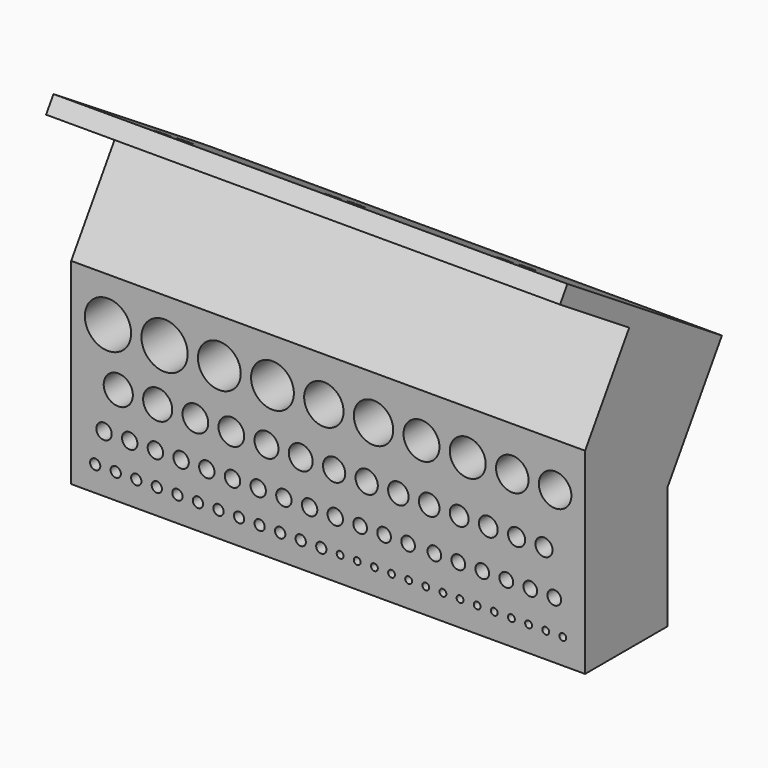
from build123d import *

# Parameters (mm, degrees)
F1_DEPTH = 25
F2_W     = 144.5209160447
F2_H     = 17.829561606
F3_DEPTH = 9.2
F4_W     = 150
F4_H     = 57.3598849668
F5_DEPTH = 5
F7_DEPTH = 150
F9_DEPTH = 25


with BuildPart() as f1:
    # F0 (on Front) → F1 (new body)
    with BuildSketch(Plane.XZ):
        with BuildLine():
            Line((75, 15.7791506468), (75, 28.6799424834))
            Line((75, 28.6799424834), (-75, 28.6799424834))
            Line((-75, 28.6799424834), (-75, 15.7791506468))
            Line((-75, 15.7791506468), (-71, 15.7791506468))
            ThreePointArc((-71, 15.7791506468), (-64.25, 22.5291506468), (-57.5, 15.7791506468))
            Line((-57.5, 15.7791506468), (-54.5, 15.7791506468))
            ThreePointArc((-54.5, 15.7791506468), (-47.75, 22.5291506468), (-41, 15.7791506468))
            Line((-41, 15.7791506468), (-38, 15.7791506468))
            ThreePointArc((-38, 15.7791506468), (-31.75, 22.0291506468), (-25.5, 15.7791506468))
            Line((-25.5, 15.7791506468), (-22.5, 15.7791506468))
            ThreePointArc((-22.5, 15.7791506468), (-16.25, 22.0291506468), (-10, 15.7791506468))
            Line((-10, 15.7791506468), (-7, 15.7791506468))
            ThreePointArc((-7, 15.7791506468), (-1.25, 21.5291506468), (4.5, 15.7791506468))
            Line((4.5, 15.7791506468), (7.5, 15.7791506468))
            ThreePointArc((7.5, 15.7791506468), (13.25, 21.5291506468), (19, 15.7791506468))
            Line((19, 15.7791506468), (22, 15.7791506468))
            ThreePointArc((22, 15.7791506468), (27.25, 21.0291506468), (32.5, 15.7791506468))
            Line((32.5, 15.7791506468), (35.5, 15.7791506468))
            ThreePointArc((35.5, 15.7791506468), (40.75, 21.0291506468), (46, 15.7791506468))
            Line((46, 15.7791506468), (49, 15.7791506468))
            ThreePointArc((49, 15.7791506468), (53.75, 20.5291506468), (58.5, 15.7791506468))
            Line((58.5, 15.7791506468), (61.5, 15.7791506468))
            ThreePointArc((61.5, 15.7791506468), (66.25, 20.5291506468), (71, 15.7791506468))
            Line((71, 15.7791506468), (75, 15.7791506468))
        make_face()
        with BuildLine():
            Line((75, 0), (75, 15.7791506468))
            Line((75, 15.7791506468), (71, 15.7791506468))
            ThreePointArc((71, 15.7791506468), (66.25, 11.0291506468), (61.5, 15.7791506468))
            Line((61.5, 15.7791506468), (58.5, 15.7791506468))
            ThreePointArc((58.5, 15.7791506468), (53.75, 11.0291506468), (49, 15.7791506468))
            Line((49, 15.7791506468), (46, 15.7791506468))
            ThreePointArc((46, 15.7791506468), (40.75, 10.5291506468), (35.5, 15.7791506468))
            Line((35.5, 15.7791506468), (32.5, 15.7791506468))
            ThreePointArc((32.5, 15.7791506468), (27.25, 10.5291506468), (22, 15.7791506468))
            Line((22, 15.7791506468), (19, 15.7791506468))
            ThreePointArc((19, 15.7791506468), (13.25, 10.0291506468), (7.5, 15.7791506468))
            Line((7.5, 15.7791506468), (4.5, 15.7791506468))
            ThreePointArc((4.5, 15.7791506468), (-1.25, 10.0291506468), (-7, 15.7791506468))
            Line((-7, 15.7791506468), (-10, 15.7791506468))
            ThreePointArc((-10, 15.7791506468), (-16.25, 9.5291506468), (-22.5, 15.7791506468))
            Line((-22.5, 15.7791506468), (-25.5, 15.7791506468))
            ThreePointArc((-25.5, 15.7791506468), (-31.75, 9.5291506468), (-38, 15.7791506468))
            Line((-38, 15.7791506468), (-41, 15.7791506468))
            ThreePointArc((-41, 15.7791506468), (-47.75, 9.0291506468), (-54.5, 15.7791506468))
            Line((-54.5, 15.7791506468), (-57.5, 15.7791506468))
            ThreePointArc((-57.5, 15.7791506468), (-64.25, 9.0291506468), (-71, 15.7791506468))
            Line((-71, 15.7791506468), (-75, 15.7791506468))
            Line((-75, 15.7791506468), (-75, 0))
            Line((-75, 0), (-65.5, 0))
            ThreePointArc((-65.5, 0), (-61.25, 4.25), (-57, 0))
            Line((-57, 0), (-54, 0))
            ThreePointArc((-54, 0), (-49.75, 4.25), (-45.5, 0))
            Line((-45.5, 0), (-42.5, 0))
            ThreePointArc((-42.5, 0), (-38.75, 3.75), (-35, 0))
            Line((-35, 0), (-32, 0))
            ThreePointArc((-32, 0), (-28.25, 3.75), (-24.5, 0))
            Line((-24.5, 0), (-21.5, 0))
            ThreePointArc((-21.5, 0), (-18, 3.5), (-14.5, 0))
            Line((-14.5, 0), (-11.5, 0))
            ThreePointArc((-11.5, 0), (-8, 3.5), (-4.5, 0))
            Line((-4.5, 0), (-1.5, 0))
            ThreePointArc((-1.5, 0), (1.75, 3.25), (5, 0))
            Line((5, 0), (8, 0))
            ThreePointArc((8, 0), (11.25, 3.25), (14.5, 0))
            Line((14.5, 0), (17.5, 0))
            ThreePointArc((17.5, 0), (20.5, 3), (23.5, 0))
            Line((23.5, 0), (26.5, 0))
            ThreePointArc((26.5, 0), (29.5, 3), (32.5, 0))
            Line((32.5, 0), (35.5, 0))
            ThreePointArc((35.5, 0), (38.25, 2.75), (41, 0))
            Line((41, 0), (44, 0))
            ThreePointArc((44, 0), (46.75, 2.75), (49.5, 0))
            Line((49.5, 0), (52.5, 0))
            ThreePointArc((52.5, 0), (55, 2.5), (57.5, 0))
            Line((57.5, 0), (60.5, 0))
            ThreePointArc((60.5, 0), (63, 2.5), (65.5, 0))
            Line((65.5, 0), (75, 0))
        make_face()
        with BuildLine():
            Line((75, -12), (75, 0))
            Line((75, 0), (65.5, 0))
            ThreePointArc((65.5, 0), (63, -2.5), (60.5, 0))
            Line((60.5, 0), (57.5, 0))
            ThreePointArc((57.5, 0), (55, -2.5), (52.5, 0))
            Line((52.5, 0), (49.5, 0))
            ThreePointArc((49.5, 0), (46.75, -2.75), (44, 0))
            Line((44, 0), (41, 0))
            ThreePointArc((41, 0), (38.25, -2.75), (35.5, 0))
            Line((35.5, 0), (32.5, 0))
            ThreePointArc((32.5, 0), (29.5, -3), (26.5, 0))
            Line((26.5, 0), (23.5, 0))
            ThreePointArc((23.5, 0), (20.5, -3), (17.5, 0))
            Line((17.5, 0), (14.5, 0))
            ThreePointArc((14.5, 0), (11.25, -3.25), (8, 0))
            Line((8, 0), (5, 0))
            ThreePointArc((5, 0), (1.75, -3.25), (-1.5, 0))
            Line((-1.5, 0), (-4.5, 0))
            ThreePointArc((-4.5, 0), (-8, -3.5), (-11.5, 0))
            Line((-11.5, 0), (-14.5, 0))
            ThreePointArc((-14.5, 0), (-18, -3.5), (-21.5, 0))
            Line((-21.5, 0), (-24.5, 0))
            ThreePointArc((-24.5, 0), (-28.25, -3.75), (-32, 0))
            Line((-32, 0), (-35, 0))
            ThreePointArc((-35, 0), (-38.75, -3.75), (-42.5, 0))
            Line((-42.5, 0), (-45.5, 0))
            ThreePointArc((-45.5, 0), (-49.75, -4.25), (-54, 0))
            Line((-54, 0), (-57, 0))
            ThreePointArc((-57, 0), (-61.25, -4.25), (-65.5, 0))
            Line((-65.5, 0), (-75, 0))
            Line((-75, 0), (-75, -12))
            Line((-75, -12), (-67.6634205133, -12))
            ThreePointArc((-67.6634205133, -12), (-65.4134205133, -9.75), (-63.1634205133, -12))
            Line((-63.1634205133, -12), (-60.1634205133, -12))
            ThreePointArc((-60.1634205133, -12), (-57.9134205133, -9.75), (-55.6634205133, -12))
            Line((-55.6634205133, -12), (-52.6634205133, -12))
            ThreePointArc((-52.6634205133, -12), (-50.4134205133, -9.75), (-48.1634205133, -12))
            Line((-48.1634205133, -12), (-45.1634205133, -12))
            ThreePointArc((-45.1634205133, -12), (-42.9134205133, -9.75), (-40.6634205133, -12))
            Line((-40.6634205133, -12), (-37.6634205133, -12))
            ThreePointArc((-37.6634205133, -12), (-35.4134205133, -9.75), (-33.1634205133, -12))
            Line((-33.1634205133, -12), (-30.1634205133, -12))
            ThreePointArc((-30.1634205133, -12), (-27.9134205133, -9.75), (-25.6634205133, -12))
            Line((-25.6634205133, -12), (-22.6634205133, -12))
            ThreePointArc((-22.6634205133, -12), (-20.4134205133, -9.75), (-18.1634205133, -12))
            Line((-18.1634205133, -12), (-15.1634205133, -12))
            ThreePointArc((-15.1634205133, -12), (-12.9134205133, -9.75), (-10.6634205133, -12))
            Line((-10.6634205133, -12), (-7.6634205133, -12))
            ThreePointArc((-7.6634205133, -12), (-5.4134205133, -9.75), (-3.1634205133, -12))
            Line((-3.1634205133, -12), (-0.1634205133, -12))
            ThreePointArc((-0.1634205133, -12), (2.0865794867, -9.75), (4.3365794867, -12))
            Line((4.3365794867, -12), (7.3365794867, -12))
            ThreePointArc((7.3365794867, -12), (9.3365794867, -10), (11.3365794867, -12))
            Line((11.3365794867, -12), (14.3365794867, -12))
            ThreePointArc((14.3365794867, -12), (16.3365794867, -10), (18.3365794867, -12))
            Line((18.3365794867, -12), (21.3365794867, -12))
            ThreePointArc((21.3365794867, -12), (23.3365794867, -10), (25.3365794867, -12))
            Line((25.3365794867, -12), (29, -12))
            ThreePointArc((29, -12), (31, -10), (33, -12))
            Line((33, -12), (36, -12))
            ThreePointArc((36, -12), (38, -10), (40, -12))
            Line((40, -12), (43, -12))
            ThreePointArc((43, -12), (45, -10), (47, -12))
            Line((47, -12), (50, -12))
            ThreePointArc((50, -12), (52, -10), (54, -12))
            Line((54, -12), (57, -12))
            ThreePointArc((57, -12), (59, -10), (61, -12))
            Line((61, -12), (64, -12))
            ThreePointArc((64, -12), (66, -10), (68, -12))
            Line((68, -12), (75, -12))
        make_face()
        with BuildLine():
            Line((75, -21.3151220232), (75, -12))
            Line((75, -12), (68, -12))
            ThreePointArc((68, -12), (66, -14), (64, -12))
            Line((64, -12), (61, -12))
            ThreePointArc((61, -12), (59, -14), (57, -12))
            Line((57, -12), (54, -12))
            ThreePointArc((54, -12), (52, -14), (50, -12))
            Line((50, -12), (47, -12))
            ThreePointArc((47, -12), (45, -14), (43, -12))
            Line((43, -12), (40, -12))
            ThreePointArc((40, -12), (38, -14), (36, -12))
            Line((36, -12), (33, -12))
            ThreePointArc((33, -12), (31, -14), (29, -12))
            Line((29, -12), (25.3365794867, -12))
            ThreePointArc((25.3365794867, -12), (23.3365794867, -14), (21.3365794867, -12))
            Line((21.3365794867, -12), (18.3365794867, -12))
            ThreePointArc((18.3365794867, -12), (16.3365794867, -14), (14.3365794867, -12))
            Line((14.3365794867, -12), (11.3365794867, -12))
            ThreePointArc((11.3365794867, -12), (9.3365794867, -14), (7.3365794867, -12))
            Line((7.3365794867, -12), (4.3365794867, -12))
            ThreePointArc((4.3365794867, -12), (2.0865794867, -14.25), (-0.1634205133, -12))
            Line((-0.1634205133, -12), (-3.1634205133, -12))
            ThreePointArc((-3.1634205133, -12), (-5.4134205133, -14.25), (-7.6634205133, -12))
            Line((-7.6634205133, -12), (-10.6634205133, -12))
            ThreePointArc((-10.6634205133, -12), (-12.9134205133, -14.25), (-15.1634205133, -12))
            Line((-15.1634205133, -12), (-18.1634205133, -12))
            ThreePointArc((-18.1634205133, -12), (-20.4134205133, -14.25), (-22.6634205133, -12))
            Line((-22.6634205133, -12), (-25.6634205133, -12))
            ThreePointArc((-25.6634205133, -12), (-27.9134205133, -14.25), (-30.1634205133, -12))
            Line((-30.1634205133, -12), (-33.1634205133, -12))
            ThreePointArc((-33.1634205133, -12), (-35.4134205133, -14.25), (-37.6634205133, -12))
            Line((-37.6634205133, -12), (-40.6634205133, -12))
            ThreePointArc((-40.6634205133, -12), (-42.9134205133, -14.25), (-45.1634205133, -12))
            Line((-45.1634205133, -12), (-48.1634205133, -12))
            ThreePointArc((-48.1634205133, -12), (-50.4134205133, -14.25), (-52.6634205133, -12))
            Line((-52.6634205133, -12), (-55.6634205133, -12))
            ThreePointArc((-55.6634205133, -12), (-57.9134205133, -14.25), (-60.1634205133, -12))
            Line((-60.1634205133, -12), (-63.1634205133, -12))
            ThreePointArc((-63.1634205133, -12), (-65.4134205133, -14.25), (-67.6634205133, -12))
            Line((-67.6634205133, -12), (-75, -12))
            Line((-75, -12), (-75, -21.3151220232))
            Line((-75, -21.3151220232), (-69.5, -21.3151220232))
            ThreePointArc((-69.5, -21.3151220232), (-68, -19.8151220232), (-66.5, -21.3151220232))
            Line((-66.5, -21.3151220232), (-63.5, -21.3151220232))
            ThreePointArc((-63.5, -21.3151220232), (-62, -19.8151220232), (-60.5, -21.3151220232))
            Line((-60.5, -21.3151220232), (-57.5, -21.3151220232))
            ThreePointArc((-57.5, -21.3151220232), (-56, -19.8151220232), (-54.5, -21.3151220232))
            Line((-54.5, -21.3151220232), (-51.5, -21.3151220232))
            ThreePointArc((-51.5, -21.3151220232), (-50, -19.8151220232), (-48.5, -21.3151220232))
            Line((-48.5, -21.3151220232), (-45.5, -21.3151220232))
            ThreePointArc((-45.5, -21.3151220232), (-44, -19.8151220232), (-42.5, -21.3151220232))
            Line((-42.5, -21.3151220232), (-39.5, -21.3151220232))
            ThreePointArc((-39.5, -21.3151220232), (-38, -19.8151220232), (-36.5, -21.3151220232))
            Line((-36.5, -21.3151220232), (-33.5, -21.3151220232))
            ThreePointArc((-33.5, -21.3151220232), (-32, -19.8151220232), (-30.5, -21.3151220232))
            Line((-30.5, -21.3151220232), (-27.5, -21.3151220232))
            ThreePointArc((-27.5, -21.3151220232), (-26, -19.8151220232), (-24.5, -21.3151220232))
            Line((-24.5, -21.3151220232), (-21.5, -21.3151220232))
            ThreePointArc((-21.5, -21.3151220232), (-20, -19.8151220232), (-18.5, -21.3151220232))
            Line((-18.5, -21.3151220232), (-15.5, -21.3151220232))
            ThreePointArc((-15.5, -21.3151220232), (-14, -19.8151220232), (-12.5, -21.3151220232))
            Line((-12.5, -21.3151220232), (-9.5, -21.3151220232))
            ThreePointArc((-9.5, -21.3151220232), (-8, -19.8151220232), (-6.5, -21.3151220232))
            Line((-6.5, -21.3151220232), (-3.5, -21.3151220232))
            ThreePointArc((-3.5, -21.3151220232), (-2, -19.8151220232), (-0.5, -21.3151220232))
            Line((-0.5, -21.3151220232), (2.5, -21.3151220232))
            ThreePointArc((2.5, -21.3151220232), (3.5, -20.3151220232), (4.5, -21.3151220232))
            Line((4.5, -21.3151220232), (7.5, -21.3151220232))
            ThreePointArc((7.5, -21.3151220232), (8.5, -20.3151220232), (9.5, -21.3151220232))
            Line((9.5, -21.3151220232), (12.5016883032, -21.3151220232))
            ThreePointArc((12.5016883032, -21.3151220232), (13.4670988895, -20.2507247583), (14.4995784584, -21.2501971579))
            ThreePointArc((14.4995784584, -21.2501971579), (14.499050858, -21.2826767268), (14.4974686136, -21.3151220232))
            Line((14.4974686136, -21.3151220232), (17.4991569168, -21.3151220232))
            ThreePointArc((17.4991569168, -21.3151220232), (18.4991569168, -20.3151220232), (19.4991569168, -21.3151220232))
            Line((19.4991569168, -21.3151220232), (22.4991569168, -21.3151220232))
            ThreePointArc((22.4991569168, -21.3151220232), (23.4991569168, -20.3151220232), (24.4991569168, -21.3151220232))
            Line((24.4991569168, -21.3151220232), (27.4991569168, -21.3151220232))
            ThreePointArc((27.4991569168, -21.3151220232), (28.4991569168, -20.3151220232), (29.4991569168, -21.3151220232))
            Line((29.4991569168, -21.3151220232), (32.4991569168, -21.3151220232))
            ThreePointArc((32.4991569168, -21.3151220232), (33.4991569168, -20.3151220232), (34.4991569168, -21.3151220232))
            Line((34.4991569168, -21.3151220232), (37.4991569168, -21.3151220232))
            ThreePointArc((37.4991569168, -21.3151220232), (38.4991569168, -20.3151220232), (39.4991569168, -21.3151220232))
            Line((39.4991569168, -21.3151220232), (42.4991569168, -21.3151220232))
            ThreePointArc((42.4991569168, -21.3151220232), (43.4991569168, -20.3151220232), (44.4991569168, -21.3151220232))
            Line((44.4991569168, -21.3151220232), (47.4991569168, -21.3151220232))
            ThreePointArc((47.4991569168, -21.3151220232), (48.4991569168, -20.3151220232), (49.4991569168, -21.3151220232))
            Line((49.4991569168, -21.3151220232), (52.4991569168, -21.3151220232))
            ThreePointArc((52.4991569168, -21.3151220232), (53.4991569168, -20.3151220232), (54.4991569168, -21.3151220232))
            Line((54.4991569168, -21.3151220232), (57.4991569168, -21.3151220232))
            ThreePointArc((57.4991569168, -21.3151220232), (58.4991569168, -20.3151220232), (59.4991569168, -21.3151220232))
            Line((59.4991569168, -21.3151220232), (62.4991569168, -21.3151220232))
            ThreePointArc((62.4991569168, -21.3151220232), (63.4991569168, -20.3151220232), (64.4991569168, -21.3151220232))
            Line((64.4991569168, -21.3151220232), (67.4991569168, -21.3151220232))
            ThreePointArc((67.4991569168, -21.3151220232), (68.4991569168, -20.3151220232), (69.4991569168, -21.3151220232))
            Line((69.4991569168, -21.3151220232), (75, -21.3151220232))
        make_face()
        with BuildLine():
            Line((75, -28.6799424834), (75, -21.3151220232))
            Line((75, -21.3151220232), (69.4991569168, -21.3151220232))
            ThreePointArc((69.4991569168, -21.3151220232), (68.4991569168, -22.3151220232), (67.4991569168, -21.3151220232))
            Line((67.4991569168, -21.3151220232), (64.4991569168, -21.3151220232))
            ThreePointArc((64.4991569168, -21.3151220232), (63.4991569168, -22.3151220232), (62.4991569168, -21.3151220232))
            Line((62.4991569168, -21.3151220232), (59.4991569168, -21.3151220232))
            ThreePointArc((59.4991569168, -21.3151220232), (58.4991569168, -22.3151220232), (57.4991569168, -21.3151220232))
            Line((57.4991569168, -21.3151220232), (54.4991569168, -21.3151220232))
            ThreePointArc((54.4991569168, -21.3151220232), (53.4991569168, -22.3151220232), (52.4991569168, -21.3151220232))
            Line((52.4991569168, -21.3151220232), (49.4991569168, -21.3151220232))
            ThreePointArc((49.4991569168, -21.3151220232), (48.4991569168, -22.3151220232), (47.4991569168, -21.3151220232))
            Line((47.4991569168, -21.3151220232), (44.4991569168, -21.3151220232))
            ThreePointArc((44.4991569168, -21.3151220232), (43.4991569168, -22.3151220232), (42.4991569168, -21.3151220232))
            Line((42.4991569168, -21.3151220232), (39.4991569168, -21.3151220232))
            ThreePointArc((39.4991569168, -21.3151220232), (38.4991569168, -22.3151220232), (37.4991569168, -21.3151220232))
            Line((37.4991569168, -21.3151220232), (34.4991569168, -21.3151220232))
            ThreePointArc((34.4991569168, -21.3151220232), (33.4991569168, -22.3151220232), (32.4991569168, -21.3151220232))
            Line((32.4991569168, -21.3151220232), (29.4991569168, -21.3151220232))
            ThreePointArc((29.4991569168, -21.3151220232), (28.4991569168, -22.3151220232), (27.4991569168, -21.3151220232))
            Line((27.4991569168, -21.3151220232), (24.4991569168, -21.3151220232))
            ThreePointArc((24.4991569168, -21.3151220232), (23.4991569168, -22.3151220232), (22.4991569168, -21.3151220232))
            Line((22.4991569168, -21.3151220232), (19.4991569168, -21.3151220232))
            ThreePointArc((19.4991569168, -21.3151220232), (18.4991569168, -22.3151220232), (17.4991569168, -21.3151220232))
            Line((17.4991569168, -21.3151220232), (14.4974686136, -21.3151220232))
            ThreePointArc((14.4974686136, -21.3151220232), (13.4995784584, -22.2501971579), (12.5016883032, -21.3151220232))
            Line((12.5016883032, -21.3151220232), (9.5, -21.3151220232))
            ThreePointArc((9.5, -21.3151220232), (8.5, -22.3151220232), (7.5, -21.3151220232))
            Line((7.5, -21.3151220232), (4.5, -21.3151220232))
            ThreePointArc((4.5, -21.3151220232), (3.5, -22.3151220232), (2.5, -21.3151220232))
            Line((2.5, -21.3151220232), (-0.5, -21.3151220232))
            ThreePointArc((-0.5, -21.3151220232), (-2, -22.8151220232), (-3.5, -21.3151220232))
            Line((-3.5, -21.3151220232), (-6.5, -21.3151220232))
            ThreePointArc((-6.5, -21.3151220232), (-8, -22.8151220232), (-9.5, -21.3151220232))
            Line((-9.5, -21.3151220232), (-12.5, -21.3151220232))
            ThreePointArc((-12.5, -21.3151220232), (-14, -22.8151220232), (-15.5, -21.3151220232))
            Line((-15.5, -21.3151220232), (-18.5, -21.3151220232))
            ThreePointArc((-18.5, -21.3151220232), (-20, -22.8151220232), (-21.5, -21.3151220232))
            Line((-21.5, -21.3151220232), (-24.5, -21.3151220232))
            ThreePointArc((-24.5, -21.3151220232), (-26, -22.8151220232), (-27.5, -21.3151220232))
            Line((-27.5, -21.3151220232), (-30.5, -21.3151220232))
            ThreePointArc((-30.5, -21.3151220232), (-32, -22.8151220232), (-33.5, -21.3151220232))
            Line((-33.5, -21.3151220232), (-36.5, -21.3151220232))
            ThreePointArc((-36.5, -21.3151220232), (-38, -22.8151220232), (-39.5, -21.3151220232))
            Line((-39.5, -21.3151220232), (-42.5, -21.3151220232))
            ThreePointArc((-42.5, -21.3151220232), (-44, -22.8151220232), (-45.5, -21.3151220232))
            Line((-45.5, -21.3151220232), (-48.5, -21.3151220232))
            ThreePointArc((-48.5, -21.3151220232), (-50, -22.8151220232), (-51.5, -21.3151220232))
            Line((-51.5, -21.3151220232), (-54.5, -21.3151220232))
            ThreePointArc((-54.5, -21.3151220232), (-56, -22.8151220232), (-57.5, -21.3151220232))
            Line((-57.5, -21.3151220232), (-60.5, -21.3151220232))
            ThreePointArc((-60.5, -21.3151220232), (-62, -22.8151220232), (-63.5, -21.3151220232))
            Line((-63.5, -21.3151220232), (-66.5, -21.3151220232))
            ThreePointArc((-66.5, -21.3151220232), (-68, -22.8151220232), (-69.5, -21.3151220232))
            Line((-69.5, -21.3151220232), (-75, -21.3151220232))
            Line((-75, -21.3151220232), (-75, -28.6799424834))
            Line((-75, -28.6799424834), (75, -28.6799424834))
        make_face()
    extrude(amount=F1_DEPTH)

    # F2 (on face) → F3 (join)
    with BuildSketch(Plane(origin=(0, 0, 0), x_dir=(-1, 0, 0), z_dir=(0, 1, 0))):
        with Locations((-0.2107582986, -15.9487174824)):
            Rectangle(F2_W, F2_H)
    extrude(amount=-F3_DEPTH)

    # F4 (on face) → F5 (join)
    with BuildSketch(Plane(origin=(0, 0, 0), x_dir=(-1, 0, 0), z_dir=(0, 1, 0))):
        Rectangle(F4_W, F4_H)
    extrude(amount=F5_DEPTH)

    # F6 (on face) → F7 (join)
    with BuildSketch(Plane(origin=(-75, 0, 0), x_dir=(0, -1, 0), z_dir=(-1, 0, 0))):
        Polygon((-24.9180495739, 37.9883646965), (-5, 6.9529279135), (-3.2576133963, 27.634434402), (25, 28.6799424834), (8.9068875106, 53.7555289987), (34.1545579587, 69.9590822184), (31.4539657554, 74.1670272931), align=None)
    extrude(amount=-F7_DEPTH)

    # F8 (on face) → F9 (cut)
    with BuildSketch(Plane(origin=(0, 21.8366042637, 34.0248450867), x_dir=(1, 0, 0), z_dir=(0, -0.5401184407, -0.8415890149))):
        with BuildLine():
            ThreePointArc((-47.75, 56.5302911857), (-50, 58.7802911857), (-52.25, 56.5302911857))
            Line((-52.25, 56.5302911857), (-47.75, 56.5302911857))
        make_face()
        with BuildLine():
            ThreePointArc((52.25, 56.5302911857), (50, 58.7802911857), (47.75, 56.5302911857))
            Line((47.75, 56.5302911857), (52.25, 56.5302911857))
        make_face()
        with BuildLine():
            Line((52.25, 56.5302911857), (47.75, 56.5302911857))
            ThreePointArc((47.75, 56.5302911857), (50, 54.2802911857), (52.25, 56.5302911857))
        make_face()
        with BuildLine():
            ThreePointArc((2.25, 56.5302911857), (0, 58.7802911857), (-2.25, 56.5302911857))
            Line((-2.25, 56.5302911857), (2.25, 56.5302911857))
        make_face()
        with BuildLine():
            Line((2.25, 56.5302911857), (-2.25, 56.5302911857))
            ThreePointArc((-2.25, 56.5302911857), (0, 54.2802911857), (2.25, 56.5302911857))
        make_face()
        with BuildLine():
            Line((-47.75, 56.5302911857), (-52.25, 56.5302911857))
            ThreePointArc((-52.25, 56.5302911857), (-50, 54.2802911857), (-47.75, 56.5302911857))
        make_face()
        with BuildLine():
            ThreePointArc((47.75, 46.5302911857), (50, 44.2802911857), (52.25, 46.5302911857))
            Line((52.25, 46.5302911857), (47.75, 46.5302911857))
        make_face()
        with BuildLine():
            Line((47.75, 46.5302911857), (52.25, 46.5302911857))
            ThreePointArc((52.25, 46.5302911857), (50, 48.7802911857), (47.75, 46.5302911857))
        make_face()
        with BuildLine():
            ThreePointArc((-52.25, 46.5302911857), (-50, 44.2802911857), (-47.75, 46.5302911857))
            Line((-47.75, 46.5302911857), (-52.25, 46.5302911857))
        make_face()
        with BuildLine():
            Line((-52.25, 46.5302911857), (-47.75, 46.5302911857))
            ThreePointArc((-47.75, 46.5302911857), (-50, 48.7802911857), (-52.25, 46.5302911857))
        make_face()
        with BuildLine():
            ThreePointArc((-2.25, 46.5302911857), (0, 44.2802911857), (2.25, 46.5302911857))
            Line((2.25, 46.5302911857), (-2.25, 46.5302911857))
        make_face()
        with BuildLine():
            Line((-2.25, 46.5302911857), (2.25, 46.5302911857))
            ThreePointArc((2.25, 46.5302911857), (0, 48.7802911857), (-2.25, 46.5302911857))
        make_face()
    extrude(amount=-F9_DEPTH, mode=Mode.SUBTRACT)


solid = f1.part
